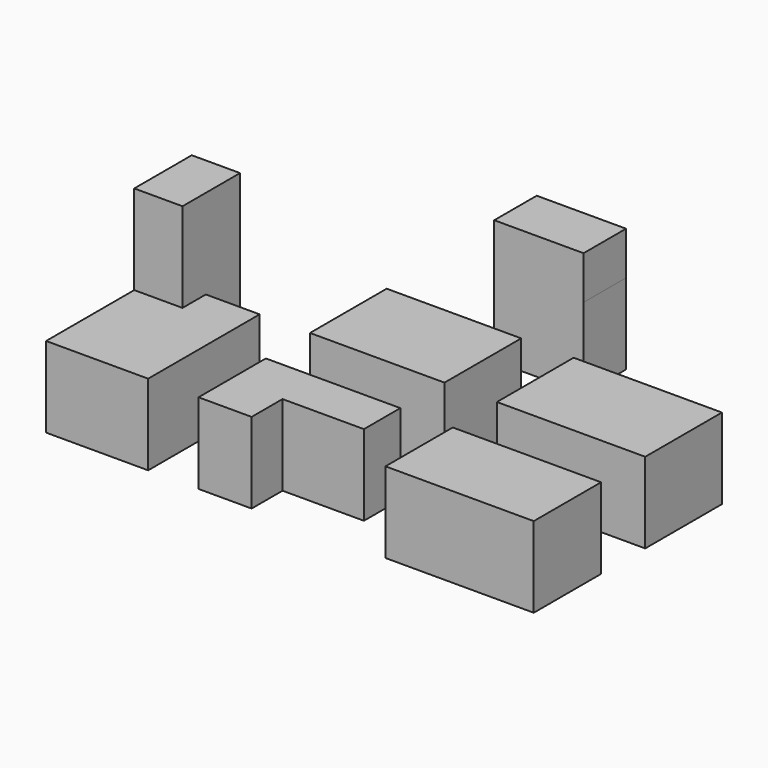
from build123d import *

# Parameters (mm, degrees)
F0_W      = 51.349696
F0_H      = 33.198178
F1_DEPTH  = 20.32
F0_H_2    = 29.137973
F0_W_2    = 46.572987
F0_W_3    = 30.923551
F0_H_3    = 18.390361
F2_DEPTH  = 27.94
F4_DEPTH  = 30.988
F2_FACE_W = 30.923552
F2_FACE_H = 18.390361
F5_DEPTH  = 14.986


with BuildPart() as f1:
    # F0 (on Top) → F1 (new body)
    with BuildSketch(Plane.XY):
        with Locations((50.513776, 16.599089)):
            Rectangle(F0_W, F0_H)
    extrude(amount=F1_DEPTH)

    # F0 (on Top) → F2 (join)
    with BuildSketch(Plane.XY):
        with Locations((50.513776, 16.599089)):
            Rectangle(F0_W, F0_H)
        with Locations((50.513776, -33.675851)):
            Rectangle(F0_W, F0_H_2)
        with Locations((-16.599091, 16.599089)):
            Rectangle(F0_W_2, F0_H)
        Polygon((6.687403, -34.870032), (6.687403, -19.106865), (-39.885584, -19.106865), (-39.885584, -48.244838), (-21.495223, -48.244838), (-21.495223, -34.870032), align=None)
        Polygon((-57.320599, -48.244838), (-57.320599, 0), (-75.949796, 0), (-75.949796, -9.075762), (-92.668295, -9.075762), (-92.668295, -48.244838), align=None)
        Polygon((-75.949796, -9.075762), (-75.949796, 0), (-75.949796, 14.807821), (-92.668295, 14.807821), (-92.668295, -9.075762), align=None)
        with Locations((-8.774373, 69.381809)):
            Rectangle(F0_W_3, F0_H_3)
    extrude(amount=F2_DEPTH)

    # F3 (on face) → F4 (join)
    with BuildSketch(Plane.XY.offset(27.94)):
        Polygon((-75.949796, 14.807821), (-92.668295, 14.807821), (-92.668295, -10.090123), (-75.949796, -10.090123), (-75.949796, 0), align=None)
    extrude(amount=F4_DEPTH)

    # F2_face (on face) → F5 (join)
    with BuildSketch(Plane(origin=(-76.175231, -20.125917, 27.94), x_dir=(1, 0, 0), z_dir=(0, 0, 1))):
        with Locations((67.400859, 89.507726)):
            Rectangle(F2_FACE_W, F2_FACE_H)
    extrude(amount=F5_DEPTH)


solid = f1.part
